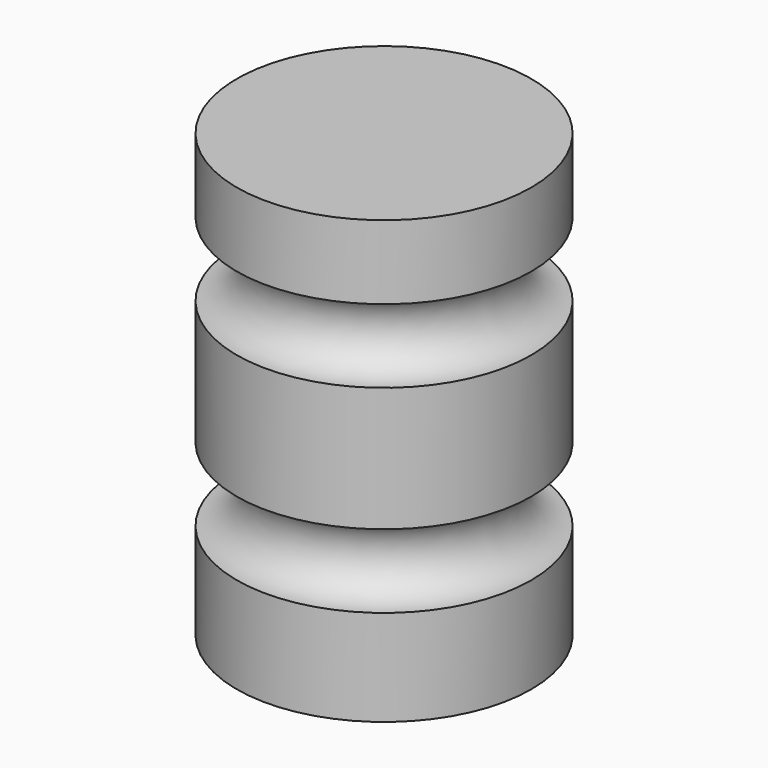
from build123d import *


with BuildPart() as f1:
    # F0 (on Front) → F1 (revolve)
    with BuildSketch(Plane.XZ):
        with BuildLine():
            Line((0, 76.2), (0, 0))
            Line((0, 0), (25.4, 0))
            Line((25.4, 0), (25.4, 16.564559))
            ThreePointArc((25.4, 16.564559), (19.05, 22.914559), (25.4, 29.264559))
            Line((25.4, 29.264559), (25.4, 50.745442))
            ThreePointArc((25.4, 50.745442), (19.05, 57.095442), (25.4, 63.445442))
            Line((25.4, 63.445442), (25.4, 76.2))
            Line((25.4, 76.2), (0, 76.2))
        make_face()
    revolve(axis=Axis((0, 0, 38.1), (0, 0, 1)))


solid = f1.part
